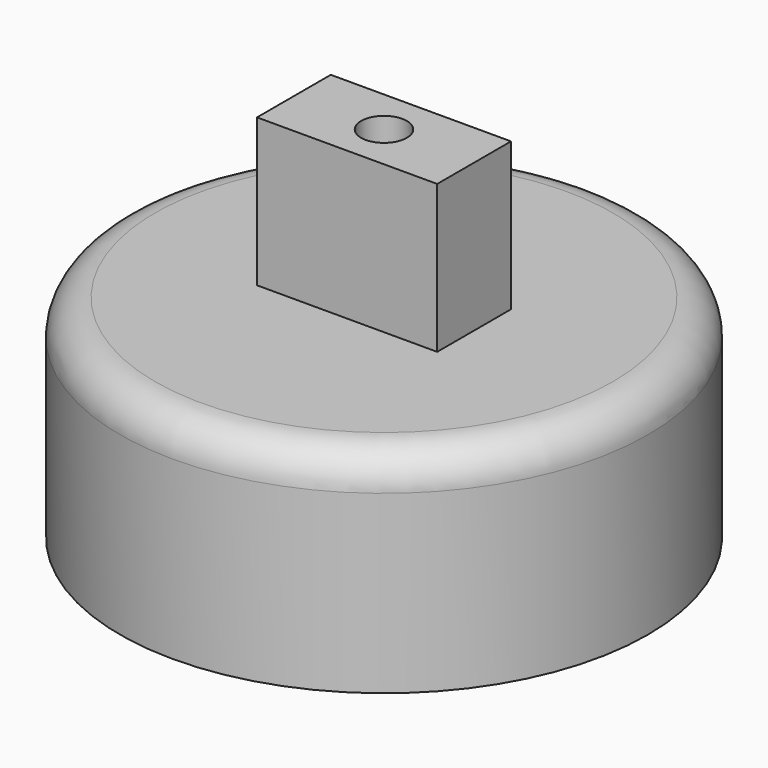
from build123d import *

# Parameters (mm, degrees)
F0_W     = 13.0048
F0_H     = 6.6548
F1_DEPTH = 10.668
F2_R     = 19.05
F3_DEPTH = 15.24
F4_R     = 2.54
F5_R     = 14.859
F6_DEPTH = 5.334
F7_R     = 1.651
F8_DEPTH = 21.59


with BuildPart() as f1:
    # F0 (on Top) → F1 (new body)
    with BuildSketch(Plane.XY):
        Rectangle(F0_W, F0_H)
    extrude(amount=F1_DEPTH)

    # F2 (on face) → F3 (join)
    with BuildSketch(Plane(origin=(0, 0, 0), x_dir=(1, 0, 0), z_dir=(0, 0, -1))):
        Circle(F2_R)
    extrude(amount=F3_DEPTH)

    # F4
    f4_edges = [f1.edges().sort_by_distance(p)[0] for p in [
        (-19.05, 0, 0),
    ]]
    fillet(f4_edges, radius=F4_R)

    # F5 (on face) → F6 (cut)
    with BuildSketch(Plane(origin=(0, 0, -15.24), x_dir=(1, 0, 0), z_dir=(0, 0, -1))):
        Circle(F5_R)
    extrude(amount=-F6_DEPTH, mode=Mode.SUBTRACT)

    # F7 (on face) → F8 (cut)
    with BuildSketch(Plane(origin=(0, 0, -9.906), x_dir=(1, 0, 0), z_dir=(0, 0, -1))):
        Circle(F7_R)
    extrude(amount=-F8_DEPTH, mode=Mode.SUBTRACT)


solid = f1.part
